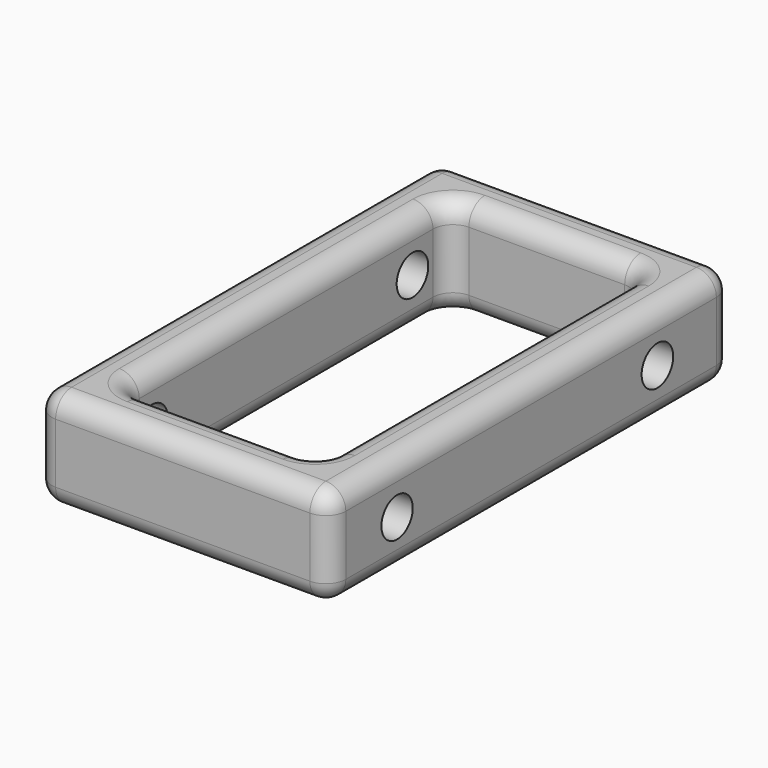
from build123d import *

# Parameters (mm, degrees)
F0_W     = 74.8185142875
F0_H     = 127.9549151659
F1_DEPTH = 25.4
F2_W     = 49.7772097588
F2_H     = 103.5243868828
F3_DEPTH = 38.1
F4_R     = 5.08
F5_R     = 4.9743780925
F6_DEPTH = 127
F7_R     = 5.0201571666
F8_DEPTH = 127


with BuildPart() as f1:
    # F0 (on Top) → F1 (new body)
    with BuildSketch(Plane.XY):
        Rectangle(F0_W, F0_H)
    extrude(amount=F1_DEPTH)

    # F2 (on Top) → F3 (cut)
    with BuildSketch(Plane.XY):
        Rectangle(F2_W, F2_H)
    extrude(amount=F3_DEPTH, mode=Mode.SUBTRACT)

    # F4
    f4_edges = [f1.edges().sort_by_distance(p)[0] for p in [
        (37.409257, 63.977458, 12.7),
        (-37.409257, 63.977458, 12.7),
        (0, 63.977458, 0),
        (0, 63.977458, 25.4),
        (37.409257, 0, 25.4),
        (0, -63.977458, 25.4),
        (-37.409257, 0, 25.4),
        (0, 51.762193, 25.4),
        (-24.888605, 0, 25.4),
        (0, -51.762193, 25.4),
        (24.888605, 0, 25.4),
        (-37.409257, -63.977458, 12.7),
        (-37.409257, 0, 0),
        (37.409257, -63.977458, 12.7),
        (0, -63.977458, 0),
        (37.409257, 0, 0),
        (-24.888605, 0, 0),
        (-24.888605, -51.762193, 12.7),
        (-24.888605, 51.762193, 12.7),
        (24.888605, 0, 0),
        (24.888605, 51.762193, 12.7),
        (24.888605, -51.762193, 12.7),
        (0, -51.762193, 0),
        (0, 51.762193, 0),
    ]]
    fillet(f4_edges, radius=F4_R)

    # F5 (on face) → F6 (cut)
    with BuildSketch(Plane.YZ.offset(37.4092571437)):
        with Locations((-42.6007434726, 12.3679572716)):
            Circle(F5_R)
    extrude(amount=-F6_DEPTH, mode=Mode.SUBTRACT)

    # F7 (on face) → F8 (cut)
    with BuildSketch(Plane.YZ.offset(37.4092571437)):
        with Locations((40.1576943696, 12.6733398065)):
            Circle(F7_R)
    extrude(amount=-F8_DEPTH, mode=Mode.SUBTRACT)


solid = f1.part
